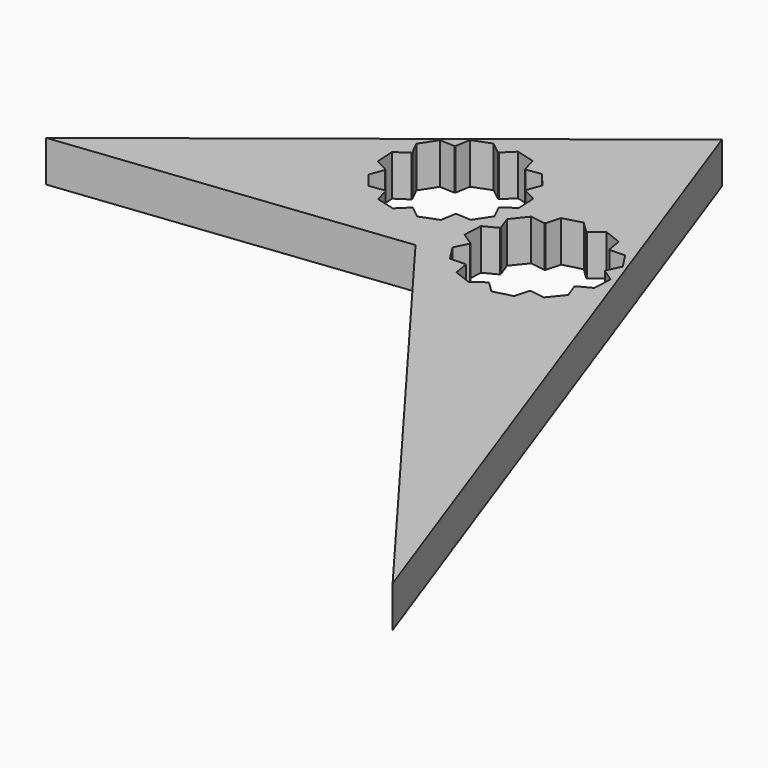
from build123d import *

# Parameters (mm, degrees)
F1_DEPTH = 2


with BuildPart() as f1:
    # F0 (on Top) → F1 (new body)
    with BuildSketch(Plane.XY):
        Polygon((16.885106, -21.930141), (3.835107, 14.423427), (-16.31955, -1.512813), (0.15961, 0.370519), align=None)
        with BuildLine():
            ThreePointArc((-4.606246, 4.476535), (-4.614025, 4.49657), (-4.62165, 4.516664))
            Line((-4.62165, 4.516664), (-5.270834, 4.857064))
            Line((-5.270834, 4.857064), (-5.320121, 5.797519))
            Line((-5.320121, 5.797519), (-4.710075, 6.203913))
            ThreePointArc((-4.710075, 6.203913), (-4.704592, 6.224693), (-4.69895, 6.245431))
            Line((-4.69895, 6.245431), (-5.024069, 6.902401))
            Line((-5.024069, 6.902401), (-4.511157, 7.692216))
            Line((-4.511157, 7.692216), (-3.778747, 7.662419))
            ThreePointArc((-3.778747, 7.662419), (-3.762097, 7.676009), (-3.745343, 7.68947))
            Line((-3.745343, 7.68947), (-3.622212, 8.41207))
            Line((-3.622212, 8.41207), (-2.743016, 8.749561))
            Line((-2.743016, 8.749561), (-2.167999, 8.294956))
            ThreePointArc((-2.167999, 8.294956), (-2.146541, 8.296163), (-2.125074, 8.297205))
            Line((-2.125074, 8.297205), (-1.600726, 8.809426))
            Line((-1.600726, 8.809426), (-0.691069, 8.565684))
            Line((-0.691069, 8.565684), (-0.49308, 7.859914))
            ThreePointArc((-0.49308, 7.859914), (-0.475011, 7.848278), (-0.457031, 7.836503))
            Line((-0.457031, 7.836503), (0.268252, 7.942694))
            Line((0.268252, 7.942694), (0.860912, 7.21082))
            Line((0.860912, 7.21082), (0.606246, 6.523465))
            ThreePointArc((0.606246, 6.523465), (0.614025, 6.50343), (0.62165, 6.483336))
            Line((0.62165, 6.483336), (1.270834, 6.142936))
            Line((1.270834, 6.142936), (1.320121, 5.202481))
            Line((1.320121, 5.202481), (0.710075, 4.796087))
            ThreePointArc((0.710075, 4.796087), (0.704592, 4.775307), (0.69895, 4.754569))
            Line((0.69895, 4.754569), (1.024069, 4.097599))
            Line((1.024069, 4.097599), (0.511157, 3.307784))
            Line((0.511157, 3.307784), (-0.221253, 3.337581))
            ThreePointArc((-0.221253, 3.337581), (-0.237903, 3.323991), (-0.254657, 3.31053))
            Line((-0.254657, 3.31053), (-0.377788, 2.58793))
            Line((-0.377788, 2.58793), (-1.256984, 2.250439))
            Line((-1.256984, 2.250439), (-1.832001, 2.705044))
            ThreePointArc((-1.832001, 2.705044), (-1.853459, 2.703837), (-1.874926, 2.702795))
            Line((-1.874926, 2.702795), (-2.399274, 2.190574))
            Line((-2.399274, 2.190574), (-3.308931, 2.434316))
            Line((-3.308931, 2.434316), (-3.50692, 3.140086))
            ThreePointArc((-3.50692, 3.140086), (-3.524989, 3.151722), (-3.542969, 3.163497))
            Line((-3.542969, 3.163497), (-4.268252, 3.057306))
            Line((-4.268252, 3.057306), (-4.860912, 3.78918))
            Line((-4.860912, 3.78918), (-4.606246, 4.476535))
        make_face(mode=Mode.SUBTRACT)
        with BuildLine():
            ThreePointArc((2.857031, 4.836503), (2.875011, 4.848278), (2.89308, 4.859914))
            Line((2.89308, 4.859914), (3.091069, 5.565684))
            Line((3.091069, 5.565684), (4.000726, 5.809426))
            Line((4.000726, 5.809426), (4.525074, 5.297205))
            ThreePointArc((4.525074, 5.297205), (4.546541, 5.296163), (4.567999, 5.294956))
            Line((4.567999, 5.294956), (5.143016, 5.749561))
            Line((5.143016, 5.749561), (6.022212, 5.41207))
            Line((6.022212, 5.41207), (6.145343, 4.68947))
            ThreePointArc((6.145343, 4.68947), (6.162097, 4.676009), (6.178747, 4.662419))
            Line((6.178747, 4.662419), (6.911157, 4.692216))
            Line((6.911157, 4.692216), (7.424069, 3.902401))
            Line((7.424069, 3.902401), (7.09895, 3.245431))
            ThreePointArc((7.09895, 3.245431), (7.104592, 3.224693), (7.110075, 3.203913))
            Line((7.110075, 3.203913), (7.720121, 2.797519))
            Line((7.720121, 2.797519), (7.670834, 1.857064))
            Line((7.670834, 1.857064), (7.02165, 1.516664))
            ThreePointArc((7.02165, 1.516664), (7.014025, 1.49657), (7.006246, 1.476535))
            Line((7.006246, 1.476535), (7.260912, 0.78918))
            Line((7.260912, 0.78918), (6.668252, 0.057306))
            Line((6.668252, 0.057306), (5.942969, 0.163497))
            ThreePointArc((5.942969, 0.163497), (5.924989, 0.151722), (5.90692, 0.140086))
            Line((5.90692, 0.140086), (5.708931, -0.565684))
            Line((5.708931, -0.565684), (4.799274, -0.809426))
            Line((4.799274, -0.809426), (4.274926, -0.297205))
            ThreePointArc((4.274926, -0.297205), (4.253459, -0.296163), (4.232001, -0.294956))
            Line((4.232001, -0.294956), (3.656984, -0.749561))
            Line((3.656984, -0.749561), (2.777788, -0.41207))
            Line((2.777788, -0.41207), (2.654657, 0.31053))
            ThreePointArc((2.654657, 0.31053), (2.637903, 0.323991), (2.621253, 0.337581))
            Line((2.621253, 0.337581), (1.888843, 0.307784))
            Line((1.888843, 0.307784), (1.375931, 1.097599))
            Line((1.375931, 1.097599), (1.70105, 1.754569))
            ThreePointArc((1.70105, 1.754569), (1.695408, 1.775307), (1.689925, 1.796087))
            Line((1.689925, 1.796087), (1.079879, 2.202481))
            Line((1.079879, 2.202481), (1.129166, 3.142936))
            Line((1.129166, 3.142936), (1.77835, 3.483336))
            ThreePointArc((1.77835, 3.483336), (1.785975, 3.50343), (1.793754, 3.523465))
            Line((1.793754, 3.523465), (1.539088, 4.21082))
            Line((1.539088, 4.21082), (2.131748, 4.942694))
            Line((2.131748, 4.942694), (2.857031, 4.836503))
        make_face(mode=Mode.SUBTRACT)
    extrude(amount=F1_DEPTH)


solid = f1.part
